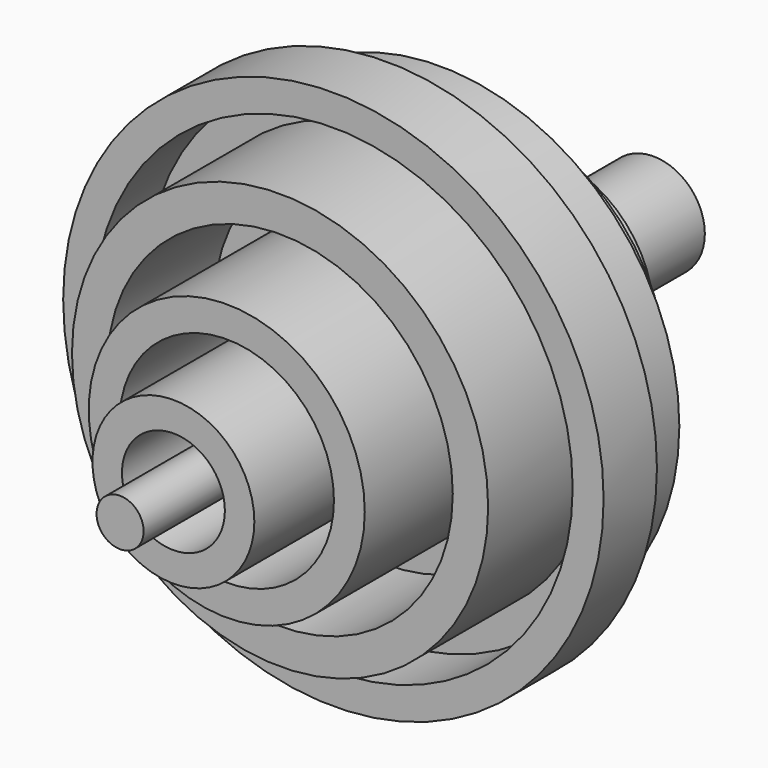
from build123d import *

# Parameters (mm, degrees)
F0_R     = 51.483445
F0_R_2   = 45.588391
F1_DEPTH = 12.7
F0_R_3   = 39.648593
F2_DEPTH = 12.7
F0_R_4   = 32.905103
F3_DEPTH = 25.4
F0_R_5   = 26.297839
F4_DEPTH = 25.4
F0_R_6   = 20.423084
F5_DEPTH = 38.1
F0_R_7   = 15.418276
F6_DEPTH = 38.1
F0_R_8   = 9.803339
F7_DEPTH = 50.8
F0_R_9   = 4.483729
F8_DEPTH = 63.5
F9_DEPTH = 63.5


with BuildPart() as f1:
    # F0 (on Front) → F1 (new body)
    with BuildSketch(Plane.XZ):
        Circle(F0_R)
        Circle(F0_R_2, mode=Mode.SUBTRACT)
    extrude(amount=F1_DEPTH)


with BuildPart() as f2:
    # F0 (on Front) → F2 (new body)
    with BuildSketch(Plane.XZ):
        Circle(F0_R_2)
        Circle(F0_R_3, mode=Mode.SUBTRACT)
    extrude(amount=-F2_DEPTH)


with BuildPart() as f3:
    # F0 (on Front) → F3 (new body)
    with BuildSketch(Plane.XZ):
        Circle(F0_R_3)
        Circle(F0_R_4, mode=Mode.SUBTRACT)
    extrude(amount=F3_DEPTH)

    # F0 (on Front) → F4 (join)
    with BuildSketch(Plane.XZ):
        Circle(F0_R_4)
        Circle(F0_R_5, mode=Mode.SUBTRACT)
    extrude(amount=-F4_DEPTH)


with BuildPart() as f5:
    # F0 (on Front) → F5 (new body)
    with BuildSketch(Plane.XZ):
        Circle(F0_R_5)
        Circle(F0_R_6, mode=Mode.SUBTRACT)
    extrude(amount=F5_DEPTH)

    # F0 (on Front) → F6 (join)
    with BuildSketch(Plane.XZ):
        Circle(F0_R_6)
        Circle(F0_R_7, mode=Mode.SUBTRACT)
    extrude(amount=-F6_DEPTH)


with BuildPart() as f7:
    # F0 (on Front) → F7 (new body)
    with BuildSketch(Plane.XZ):
        Circle(F0_R_7)
        Circle(F0_R_8, mode=Mode.SUBTRACT)
    extrude(amount=F7_DEPTH)

    # F0 (on Front) → F8 (join)
    with BuildSketch(Plane.XZ):
        Circle(F0_R_8)
        Circle(F0_R_9, mode=Mode.SUBTRACT)
    extrude(amount=-F8_DEPTH)


with BuildPart() as f9:
    # F0 (on Front) → F9 (new body)
    with BuildSketch(Plane.XZ):
        Circle(F0_R_9)
    extrude(amount=F9_DEPTH)


solid = Compound([f1.part, f2.part, f3.part, f5.part, f7.part, f9.part])
